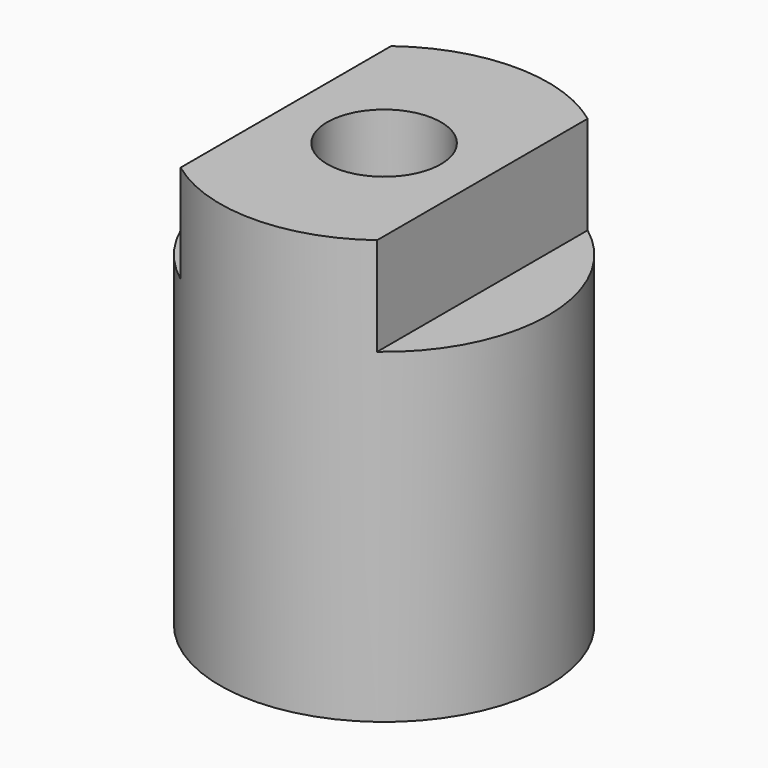
from build123d import *

# Parameters (mm, degrees)
F0_R     = 15.875
F1_DEPTH = 41
F2_W     = 7
F2_H     = 9.5
F3_DEPTH = 25
F5_D     = 11
F5_DEPTH = 32
F5_TIP   = 3.3047334047


with BuildPart() as f1:
    # F0 (on Top) → F1 (new body)
    with BuildSketch(Plane.XY):
        Circle(F0_R)
    extrude(amount=F1_DEPTH)

    # F2 (on Front) → F3 (cut, symmetric)
    with BuildSketch(Plane.XZ):
        with Locations((-13, 36.25)):
            Rectangle(F2_W, F2_H)
        with Locations((13, 36.25)):
            Rectangle(F2_W, F2_H)
    extrude(amount=F3_DEPTH, both=True, mode=Mode.SUBTRACT)

    # F5
    with Locations(Plane.XY.offset(41)):
        with Locations((0, 0)):
            Hole(F5_D / 2, depth=F5_DEPTH)
            with Locations((0, 0, -(F5_DEPTH + F5_TIP / 2))):  # 118° drill point
                Cone(0, F5_D / 2, F5_TIP, mode=Mode.SUBTRACT)


solid = f1.part
